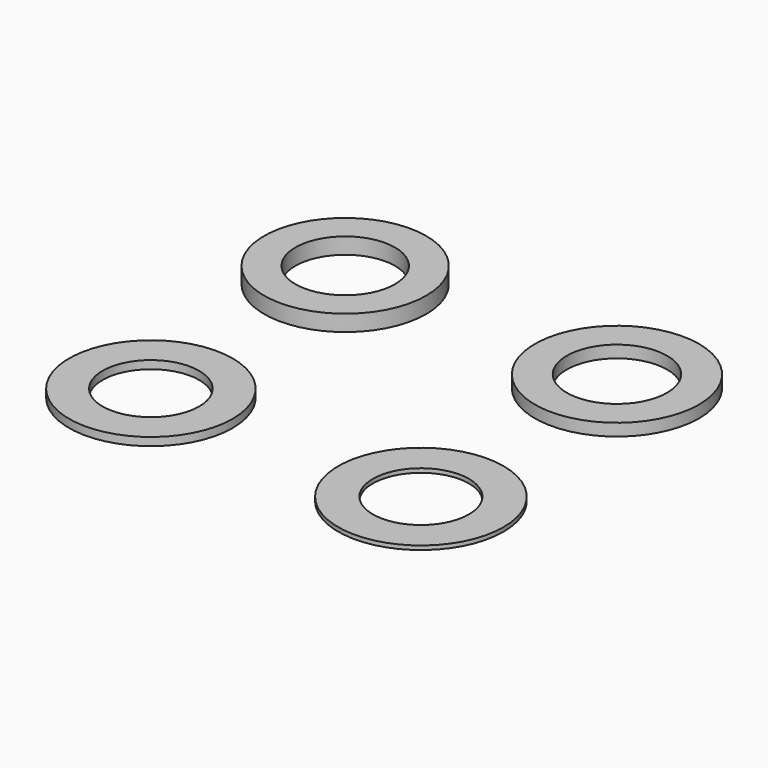
from build123d import *

# Parameters (mm, degrees)
F0_R     = 5
F0_R_2   = 3.073239
F1_DEPTH = 1
F2_R     = 5.068474
F2_R_2   = 3.096698
F3_DEPTH = 0.75
F4_R     = 5.051087
F4_R_2   = 2.980894
F5_DEPTH = 0.5
F6_R     = 5.103074
F6_R_2   = 2.966101
F7_DEPTH = 0.25


with BuildPart() as f1:
    # F0 (on Top) → F1 (new body)
    with BuildSketch(Plane.XY):
        with Locations((-43.621272, 36.690086)):
            Circle(F0_R)
        with Locations((-43.621272, 36.690086)):
            Circle(F0_R_2, mode=Mode.SUBTRACT)
    extrude(amount=F1_DEPTH)


with BuildPart() as f3:
    # F2 (on Top) → F3 (new body)
    with BuildSketch(Plane.XY):
        with Locations((-26.620764, 36.408901)):
            Circle(F2_R)
        with Locations((-26.620764, 36.408901)):
            Circle(F2_R_2, mode=Mode.SUBTRACT)
    extrude(amount=F3_DEPTH)


with BuildPart() as f5:
    # F4 (on Top) → F5 (new body)
    with BuildSketch(Plane.XY):
        with Locations((-43.527544, 21.578392)):
            Circle(F4_R)
        with Locations((-43.527544, 21.578392)):
            Circle(F4_R_2, mode=Mode.SUBTRACT)
    extrude(amount=F5_DEPTH)


with BuildPart() as f7:
    # F6 (on Top) → F7 (new body)
    with BuildSketch(Plane.XY):
        with Locations((-26.620764, 21.281779)):
            Circle(F6_R)
        with Locations((-26.620764, 21.281779)):
            Circle(F6_R_2, mode=Mode.SUBTRACT)
    extrude(amount=F7_DEPTH)


solid = Compound([f1.part, f3.part, f5.part, f7.part])
